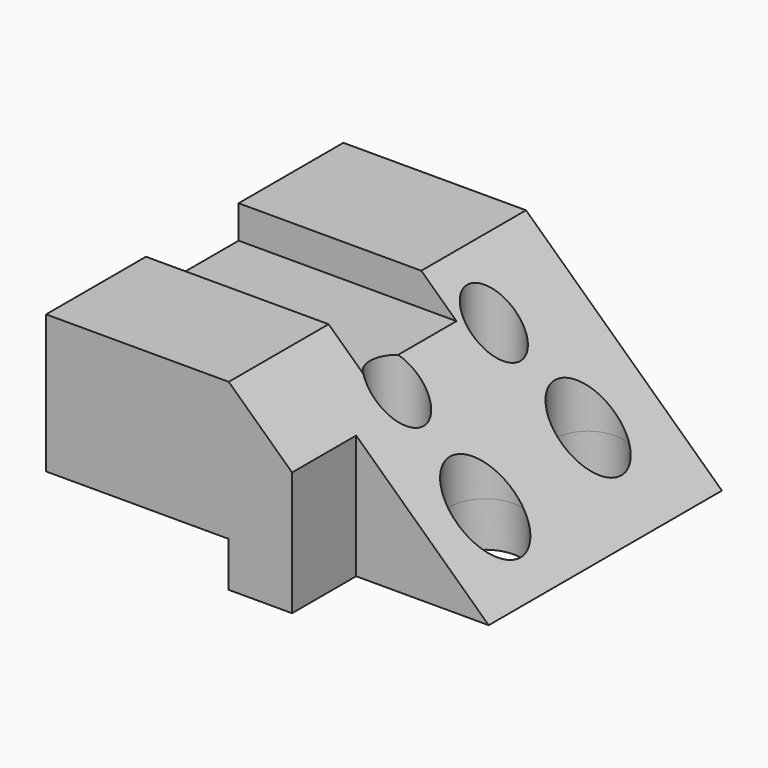
from build123d import *

# Parameters (mm, degrees)
F1_DEPTH = 100
F2_W     = 38.2318552583
F2_H     = 21.9314545393
F3_DEPTH = 37.5
F4_W     = 31.1708524823
F4_H     = 11.4039704204
F5_DEPTH = 100
F6_R     = 7.2110189045
F6_R_2   = 9.4884997303
F6_R_3   = 8.9600155303
F6_R_4   = 7.162126067
F7_DEPTH = 2500


with BuildPart() as f1:
    # F0 (on Front) → F1 (new body)
    with BuildSketch(Plane.XZ):
        Polygon((-49.1552427411, 37.2157283127), (-49.1552427411, 0), (0, 0), (0, -12.0665328577), (52.7116954327, -12.0665328577), (0, 37.2157283127), align=None)
    extrude(amount=F1_DEPTH)

    # F2 (on Top) → F3 (cut, symmetric)
    with BuildSketch(Plane.XY):
        with Locations((36.1572587863, -89.4082635641)):
            Rectangle(F2_W, F2_H)
    extrude(amount=F3_DEPTH, both=True, mode=Mode.SUBTRACT)

    # F4 (on Right) → F5 (cut, symmetric)
    with BuildSketch(Plane.YZ):
        with Locations((-50.8213154972, 34.0540632606)):
            Rectangle(F4_W, F4_H)
    extrude(amount=F5_DEPTH, both=True, mode=Mode.SUBTRACT)

    # F6 (on Top) → F7 (cut, symmetric)
    with BuildSketch(Plane.XY):
        with Locations((13.7812495232, -60.6602802873)):
            Circle(F6_R)
        with Locations((36.6018153727, -59.4747960567)):
            Circle(F6_R_2)
        with Locations((33.9344777167, -21.5393137187)):
            Circle(F6_R_3)
        with Locations((12.595766224, -26.5776216984)):
            Circle(F6_R_4)
    extrude(amount=F7_DEPTH, both=True, mode=Mode.SUBTRACT)


solid = f1.part
